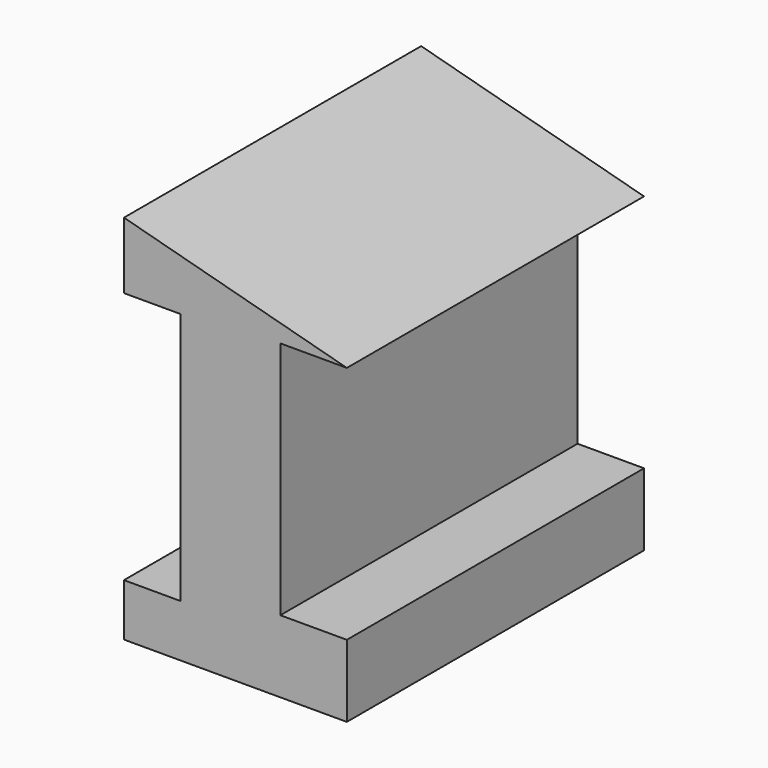
from build123d import *

# Parameters (mm, degrees)
F0_W     = 3.813922
F0_H     = 17.002841
F0_W_2   = 4.474432
F0_H_2   = 16.107955
F1_DEPTH = 25
F2_DEPTH = 25.001
F3_DEPTH = 46


with BuildPart() as f1:
    # F0 (on Front) → F1 (new body)
    with BuildSketch(Plane.XZ):
        Polygon((6.599786, 9.955611), (-8.400214, 13.9826), (-8.400214, 9.508167), (-4.586292, 9.508167), (-4.586292, -7.494674), (-8.400214, -7.494674), (-8.400214, -11.0174), (6.599786, -11.0174), (6.599786, -6.152344), (2.125354, -6.152344), (2.125354, 9.955611), align=None)
        Polygon((6.599786, 13.9826), (-8.400214, 13.9826), (6.599786, 9.955611), align=None)
        with Locations((-6.493253, 1.006747)):
            Rectangle(F0_W, F0_H)
        with Locations((4.36257, 1.901633)):
            Rectangle(F0_W_2, F0_H_2)
    extrude(amount=F1_DEPTH)

    # F0 (on Front) → F2 (cut, through all)
    with BuildSketch(Plane.XZ):
        with Locations((4.36257, 1.901633)):
            Rectangle(F0_W_2, F0_H_2)
        with Locations((-6.493253, 1.006747)):
            Rectangle(F0_W, F0_H)
    extrude(amount=F2_DEPTH, mode=Mode.SUBTRACT)

    # F0 (on Front) → F3 (cut)
    with BuildSketch(Plane.XZ):
        Polygon((6.599786, 13.9826), (-8.400214, 13.9826), (6.599786, 9.955611), align=None)
    extrude(amount=F3_DEPTH, mode=Mode.SUBTRACT)


solid = f1.part
